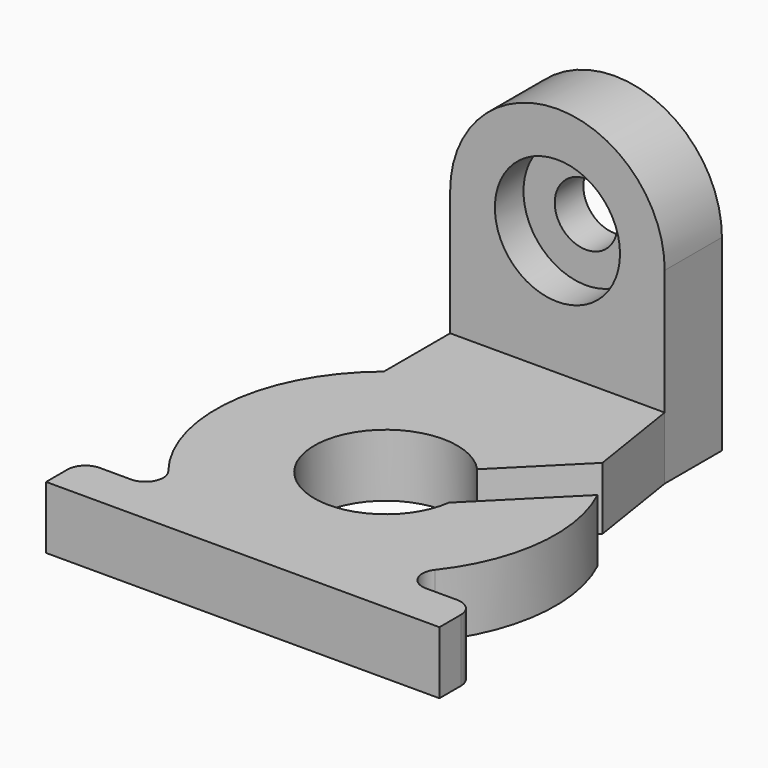
from build123d import *

# Parameters (mm, degrees)
F0_W           = 38.1
F0_H           = 12.7
F1_DEPTH       = 11.1125
F2_W           = 38.1
F2_H           = 22.225
F3_DEPTH       = 12.7
F5_D           = 11.1125
F5_DEPTH       = 12.7
F5_CBORE_D     = 22.225
F5_CBORE_DEPTH = 6.35
F6_R           = 3.175


with BuildPart() as f1:
    # F0 (on Top) → F1 (new body)
    with BuildSketch(Plane.XY):
        with BuildLine():
            ThreePointArc((-16.910493, 6.898722), (-28.021043, -16.829595), (-16.373765, -40.299113))
            ThreePointArc((-16.373765, -40.299113), (2.139507, -46.649113), (20.652779, -40.299113))
            ThreePointArc((20.652779, -40.299113), (31.485209, -23.458425), (29.384606, -3.545168))
            Line((29.384606, -3.545168), (14.72239, -18.207384))
            ThreePointArc((14.72239, -18.207384), (-9.987481, -20.25837), (11.526728, -7.932662))
            Line((11.526728, -7.932662), (23.880181, 4.42079))
            Line((23.880181, 4.42079), (21.189507, 21.613387))
            Line((21.189507, 21.613387), (-16.910493, 21.613387))
            Line((-16.910493, 21.613387), (-16.910493, 6.898722))
        make_face()
        with Locations((2.139507, 27.963387)):
            Rectangle(F0_W, F0_H)
        with BuildLine():
            Line((-16.373765, -40.299113), (-32.785493, -40.299113))
            Line((-32.785493, -40.299113), (-32.785493, -48.236613))
            Line((-32.785493, -48.236613), (37.064507, -48.236613))
            Line((37.064507, -48.236613), (37.064507, -40.299113))
            Line((37.064507, -40.299113), (20.652779, -40.299113))
            ThreePointArc((20.652779, -40.299113), (2.139507, -46.649113), (-16.373765, -40.299113))
        make_face()
    extrude(amount=F1_DEPTH)

    # F2 (on face) → F3 (join)
    with BuildSketch(Plane(origin=(0, 34.313387, 0), x_dir=(-1, 0, 0), z_dir=(0, 1, 0))):
        with BuildLine():
            ThreePointArc((16.910493, 33.3375), (-2.139507, 52.3875), (-21.189507, 33.3375))
            Line((-21.189507, 33.3375), (16.910493, 33.3375))
        make_face()
        with Locations((-2.139507, 22.225)):
            Rectangle(F2_W, F2_H)
    extrude(amount=-F3_DEPTH)

    # F5
    with Locations(Plane.XZ.offset(-21.613387)):
        with Locations((2.139507, 33.3375)):
            CounterBoreHole(F5_D / 2, F5_CBORE_D / 2, F5_CBORE_DEPTH, depth=F5_DEPTH)

    # F6
    f6_edges = [f1.edges().sort_by_distance(p)[0] for p in [
        (37.064507, -40.299113, 5.55625),
        (20.652779, -40.299113, 5.55625),
        (-16.373765, -40.299113, 5.55625),
        (-32.785493, -40.299113, 5.55625),
    ]]
    fillet(f6_edges, radius=F6_R)


solid = f1.part
